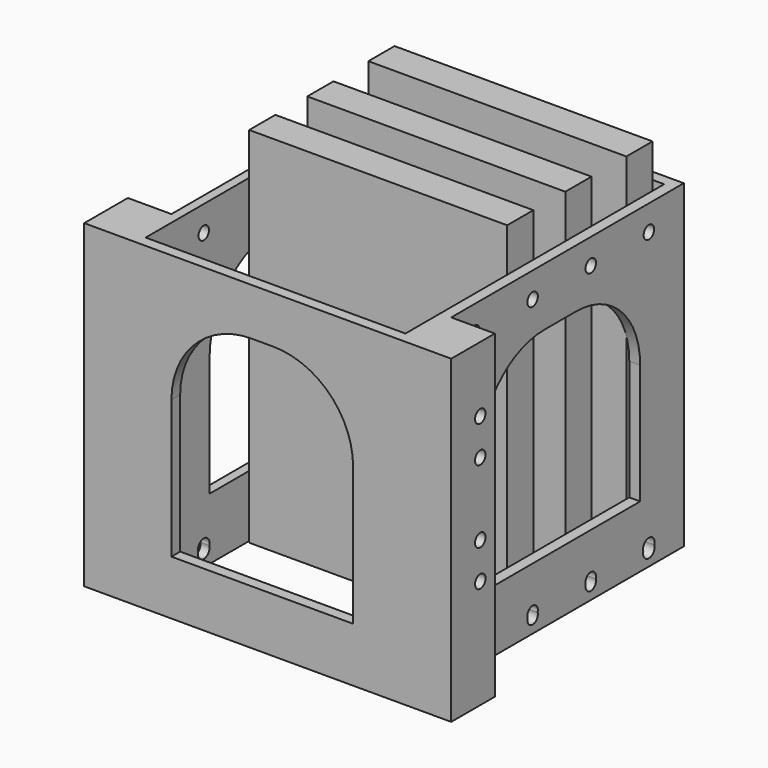
from build123d import *

# Parameters (mm, degrees)
BOX_W             = 71
BOX_H             = 9
BOX_DEPTH         = 100
BOX001_W          = 71
BOX001_H          = 9
BOX001_DEPTH      = 100
BOX002_W          = 71
BOX002_H          = 9
BOX002_DEPTH      = 100
CYLINDER009_R     = 1.8
CYLINDER009_DEPTH = 120
CYLINDER007_R     = 1.8
CYLINDER007_DEPTH = 120
CYLINDER008_R     = 1.8
CYLINDER008_DEPTH = 120
CYLINDER006_R     = 1.8
CYLINDER006_DEPTH = 120
CYLINDER005_R     = 1.8
CYLINDER005_DEPTH = 120
CYLINDER010_R     = 2
CYLINDER010_DEPTH = 120
CYLINDER011_R     = 1.8
CYLINDER011_DEPTH = 120
CYLINDER012_R     = 2
CYLINDER012_DEPTH = 120
CYLINDER013_R     = 1.8
CYLINDER013_DEPTH = 120
CYLINDER014_R     = 1.8
CYLINDER014_DEPTH = 120
CYLINDER015_R     = 2
CYLINDER015_DEPTH = 120
CYLINDER004_R     = 2
CYLINDER004_DEPTH = 120
BOX004_W          = 50
BOX004_H          = 120
BOX004_DEPTH      = 60
FILLET_R          = 22
BOX003_W          = 120
BOX003_H          = 55
BOX003_DEPTH      = 55
FILLET001_R       = 22
CYLINDER002_R     = 1.8
CYLINDER002_DEPTH = 120
CYLINDER001_R     = 1.8
CYLINDER001_DEPTH = 120
CYLINDER003_R     = 1.8
CYLINDER003_DEPTH = 120
CYLINDER_R        = 1.8
CYLINDER_DEPTH    = 120
SKETCH_W          = 71.5
SKETCH_H          = 89
EXTRUDE_DEPTH     = 88


with BuildPart() as cube:
    # Box → Box (new body)
    with BuildSketch(Plane(origin=(15, 38, 0), x_dir=(1, 0, 0), z_dir=(0, 0, 1))):
        with Locations((35.5, 4.5)):
            Rectangle(BOX_W, BOX_H)
    extrude(amount=BOX_DEPTH)


with BuildPart() as cube001:
    # Box001 → Box001 (new body)
    with BuildSketch(Plane(origin=(15, 79, 0), x_dir=(1, 0, 0), z_dir=(0, 0, 1))):
        with Locations((35.5, 4.5)):
            Rectangle(BOX001_W, BOX001_H)
    extrude(amount=BOX001_DEPTH)


with BuildPart() as cube002:
    # Box002 → Box002 (new body)
    with BuildSketch(Plane(origin=(15, 58, 0), x_dir=(1, 0, 0), z_dir=(0, 0, 1))):
        with Locations((35.5, 4.5)):
            Rectangle(BOX002_W, BOX002_H)
    extrude(amount=BOX002_DEPTH)


with BuildPart() as obj1:
    # Cylinder009 → Cylinder009 (new body)
    with BuildSketch(Plane(origin=(-10, 63, 81), x_dir=(0, 0, -1), z_dir=(1, 0, 0))):
        Circle(CYLINDER009_R)
    extrude(amount=CYLINDER009_DEPTH)


with BuildPart() as obj2:
    # Cylinder007 → Cylinder007 (new body)
    with BuildSketch(Plane(origin=(-10, 83, 81), x_dir=(0, 0, -1), z_dir=(1, 0, 0))):
        Circle(CYLINDER007_R)
    extrude(amount=CYLINDER007_DEPTH)


with BuildPart() as obj3:
    # Cylinder008 → Cylinder008 (new body)
    with BuildSketch(Plane(origin=(-10, 43, 81), x_dir=(0, 0, -1), z_dir=(1, 0, 0))):
        Circle(CYLINDER008_R)
    extrude(amount=CYLINDER008_DEPTH)


with BuildPart() as obj4:
    # Cylinder006 → Cylinder006 (new body)
    with BuildSketch(Plane(origin=(-10, 43, 5), x_dir=(0, 0, -1), z_dir=(1, 0, 0))):
        Circle(CYLINDER006_R)
    extrude(amount=CYLINDER006_DEPTH)


with BuildPart() as obj5:
    # Cylinder005 → Cylinder005 (new body)
    with BuildSketch(Plane(origin=(-10, 63, 5), x_dir=(0, 0, -1), z_dir=(1, 0, 0))):
        Circle(CYLINDER005_R)
    extrude(amount=CYLINDER005_DEPTH)


with BuildPart() as obj6:
    # Cylinder010 → Cylinder010 (new body)
    with BuildSketch(Plane(origin=(-10, 23, 5), x_dir=(0, 0, -1), z_dir=(1, 0, 0))):
        Circle(CYLINDER010_R)
    extrude(amount=CYLINDER010_DEPTH)


with BuildPart() as obj7:
    # Cylinder011 → Cylinder011 (new body)
    with BuildSketch(Plane(origin=(-10, 23, 81), x_dir=(0, 0, -1), z_dir=(1, 0, 0))):
        Circle(CYLINDER011_R)
    extrude(amount=CYLINDER011_DEPTH)


with BuildPart() as obj8:
    # Cylinder012 → Cylinder012 (new body)
    with BuildSketch(Plane(origin=(-10, 83, 4), x_dir=(0, 0, -1), z_dir=(1, 0, 0))):
        Circle(CYLINDER012_R)
    extrude(amount=CYLINDER012_DEPTH)


with BuildPart() as obj9:
    # Cylinder013 → Cylinder013 (new body)
    with BuildSketch(Plane(origin=(-10, 43, 4), x_dir=(0, 0, -1), z_dir=(1, 0, 0))):
        Circle(CYLINDER013_R)
    extrude(amount=CYLINDER013_DEPTH)


with BuildPart() as obj10:
    # Cylinder014 → Cylinder014 (new body)
    with BuildSketch(Plane(origin=(-10, 63, 4), x_dir=(0, 0, -1), z_dir=(1, 0, 0))):
        Circle(CYLINDER014_R)
    extrude(amount=CYLINDER014_DEPTH)


with BuildPart() as obj11:
    # Cylinder015 → Cylinder015 (new body)
    with BuildSketch(Plane(origin=(-10, 23, 4), x_dir=(0, 0, -1), z_dir=(1, 0, 0))):
        Circle(CYLINDER015_R)
    extrude(amount=CYLINDER015_DEPTH)


with BuildPart() as fusion001:
    # Cylinder004 → Cylinder004 (new body)
    with BuildSketch(Plane(origin=(-10, 83, 5), x_dir=(0, 0, -1), z_dir=(1, 0, 0))):
        Circle(CYLINDER004_R)
    extrude(amount=CYLINDER004_DEPTH)

    # Fusion001: union obj1, obj2, obj3, obj4, obj5, obj6, obj7, obj8, obj9, obj10, obj11
    add(obj1.part)
    add(obj2.part)
    add(obj3.part)
    add(obj4.part)
    add(obj5.part)
    add(obj6.part)
    add(obj7.part)
    add(obj8.part)
    add(obj9.part)
    add(obj10.part)
    add(obj11.part)


with BuildPart() as fillet_body:
    # Box004 → Box004 (new body)
    with BuildSketch(Plane(origin=(24, -11, 15), x_dir=(1, 0, 0), z_dir=(0, 0, 1))):
        with Locations((25, 60)):
            Rectangle(BOX004_W, BOX004_H)
    extrude(amount=BOX004_DEPTH)

    # Fillet
    fillet_edges = [fillet_body.edges().sort_by_distance(p)[0] for p in [
        (24, 49, 75),
        (74, 49, 75),
    ]]
    fillet(fillet_edges, radius=FILLET_R)


with BuildPart() as fillet001:
    # Box003 → Box003 (new body)
    with BuildSketch(Plane(origin=(0, 25, 17), x_dir=(1, 0, 0), z_dir=(0, 0, 1))):
        with Locations((60, 27.5)):
            Rectangle(BOX003_W, BOX003_H)
    extrude(amount=BOX003_DEPTH)

    # Fillet001
    fillet001_edges = [fillet001.edges().sort_by_distance(p)[0] for p in [
        (60, 25, 72),
        (60, 80, 72),
    ]]
    fillet(fillet001_edges, radius=FILLET001_R)


with BuildPart() as obj12:
    # Cylinder002 → Cylinder002 (new body)
    with BuildSketch(Plane(origin=(-10, 10, 40), x_dir=(0, 0, -1), z_dir=(1, 0, 0))):
        Circle(CYLINDER002_R)
    extrude(amount=CYLINDER002_DEPTH)


with BuildPart() as obj13:
    # Cylinder001 → Cylinder001 (new body)
    with BuildSketch(Plane(origin=(-10, 10, 30), x_dir=(0, 0, -1), z_dir=(1, 0, 0))):
        Circle(CYLINDER001_R)
    extrude(amount=CYLINDER001_DEPTH)


with BuildPart() as obj14:
    # Cylinder003 → Cylinder003 (new body)
    with BuildSketch(Plane(origin=(-10, 10, 70), x_dir=(0, 0, -1), z_dir=(1, 0, 0))):
        Circle(CYLINDER003_R)
    extrude(amount=CYLINDER003_DEPTH)


with BuildPart() as fusion002:
    # Cylinder → Cylinder (new body)
    with BuildSketch(Plane(origin=(-10, 10, 60), x_dir=(0, 0, -1), z_dir=(1, 0, 0))):
        Circle(CYLINDER_R)
    extrude(amount=CYLINDER_DEPTH)

    # Fusion: union obj12, obj13, obj14
    add(obj12.part)
    add(obj13.part)
    add(obj14.part)

    # Fusion002: union Fusion001, Fillet body, Fillet001
    add(fusion001.part)
    add(fillet_body.part)
    add(fillet001.part)


with BuildPart() as cut:
    # Sketch → Extrude (new body)
    with BuildSketch(Plane.XY):
        Polygon((0, 0), (101, 0), (101, 15), (89, 15), (89, 95), (12, 95), (12, 15), (0, 15), align=None)
        with Locations((50.25, 47.5)):
            Rectangle(SKETCH_W, SKETCH_H, mode=Mode.SUBTRACT)
    extrude(amount=EXTRUDE_DEPTH)

    # Cut: cut Fusion002
    add(fusion002.part, mode=Mode.SUBTRACT)


solid = Compound([cube.part, cube001.part, cube002.part, cut.part])
